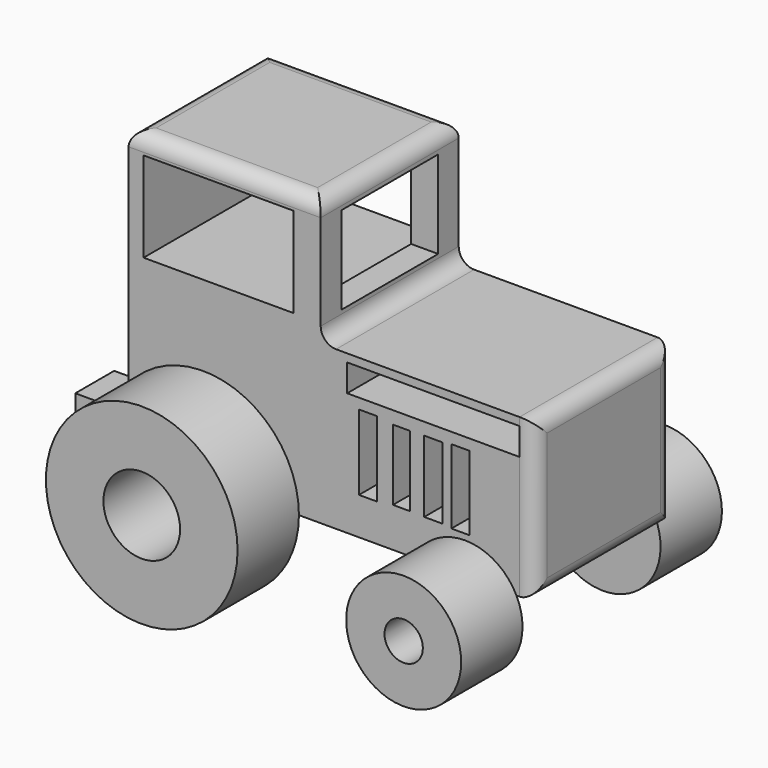
from build123d import *

# Parameters (mm, degrees)
F0_W      = 63.641474
F0_H      = 41.773599
F0_W_2    = 49.73047
F0_H_2    = 29.838283
F1_DEPTH  = 57.15
F2_R      = 19.05
F2_R_2    = 6.35
F2_R_3    = 31.75
F2_R_4    = 12.7
F3_DEPTH  = 25.4
F4_R      = 31.75
F4_R_2    = 12.7
F4_R_3    = 19.05
F4_R_4    = 6.35
F5_DEPTH  = 25.4
F6_W      = 40.11992
F6_H      = 29.025927
F7_DEPTH  = 25.4
F8_R      = 5.08
F9_W      = 16.103194
F9_H      = 9.219451
F9_W_2    = 7.053554
F9_H_2    = 3.602702
F10_DEPTH = 20.32
F11_W     = 57.042776
F11_H     = 9.006755
F11_W_2   = 6.004483
F11_H_2   = 24.91869
F11_W_3   = 5.704254
F11_H_3   = 23.417564
F11_H_4   = 24.618464
F11_W_4   = 6.004482
F11_H_5   = 23.717788
F12_DEPTH = 63.246


with BuildPart() as f1:
    # F0 (on Front) → F1 (new body)
    with BuildSketch(Plane.XZ):
        Polygon((-63.641474, 24.699468), (-63.655011, 24.699468), (-63.655011, -27.683297), (70.948809, -27.683297), (70.948809, 24.699468), (0, 24.699468), align=None)
        with Locations((-31.820737, 45.586267)):
            Rectangle(F0_W, F0_H)
        with Locations((-33.816721, 45.586267)):
            Rectangle(F0_W_2, F0_H_2, mode=Mode.SUBTRACT)
    extrude(amount=F1_DEPTH)

    # F2 (on Front) → F3 (join)
    with BuildSketch(Plane.XZ):
        with Locations((47.813714, -36.03467)):
            Circle(F2_R)
        with Locations((47.813714, -36.03467)):
            Circle(F2_R_2, mode=Mode.SUBTRACT)
        with Locations((-38.951659, -27.168135)):
            Circle(F2_R_3)
        with Locations((-38.951659, -27.168135)):
            Circle(F2_R_4, mode=Mode.SUBTRACT)
    extrude(amount=-F3_DEPTH)

    # F4 (on face) → F5 (join)
    with BuildSketch(Plane.XZ.offset(57.15)):
        with Locations((-38.965259, -27.683297)):
            Circle(F4_R)
        with Locations((-38.965259, -27.683297)):
            Circle(F4_R_2, mode=Mode.SUBTRACT)
        with Locations((47.799807, -36.177129)):
            Circle(F4_R_3)
        with Locations((47.799807, -36.177129)):
            Circle(F4_R_4, mode=Mode.SUBTRACT)
    extrude(amount=F5_DEPTH)

    # F6 (on face) → F7 (cut)
    with BuildSketch(Plane.YZ):
        with Locations((-28.575, 45.586267)):
            Rectangle(F6_W, F6_H)
    extrude(amount=-F7_DEPTH, mode=Mode.SUBTRACT)

    # F8
    f8_edges = [f1.edges().sort_by_distance(p)[0] for p in [
        (0, -28.575, 24.699468),
        (70.948809, -28.575, 24.699468),
        (70.948809, -28.575, -27.683297),
        (70.948809, 0, -1.491915),
        (70.948809, -57.15, -1.491915),
        (-31.820737, -57.15, 66.473067),
        (0, -28.575, 66.473067),
        (-31.820737, 0, 66.473067),
        (-63.641474, -28.575, 66.473067),
    ]]
    fillet(f8_edges, radius=F8_R)

    # F9 (on face) → F10 (join)
    with BuildSketch(Plane(origin=(-63.655011, 0, 0), x_dir=(0, -1, 0), z_dir=(-1, 0, 0))):
        with Locations((45.752488, -23.073571)):
            Rectangle(F9_W, F9_H)
        with Locations((45.752488, -23.074446)):
            Rectangle(F9_W_2, F9_H_2, mode=Mode.SUBTRACT)
    extrude(amount=F10_DEPTH)

    # F11 (on face) → F12 (cut)
    with BuildSketch(Plane.XZ.offset(57.15)):
        with Locations((37.286255, 17.56317)):
            Rectangle(F11_W, F11_H)
        with Locations((15.67004, -2.852139)):
            Rectangle(F11_W_2, F11_H_2)
        with Locations((26.778372, -2.852139)):
            Rectangle(F11_W_3, F11_H_3)
        with Locations((46.293005, -2.852139)):
            Rectangle(F11_W_2, F11_H_4)
        with Locations((37.286252, -2.852139)):
            Rectangle(F11_W_4, F11_H_5)
    extrude(amount=-F12_DEPTH, mode=Mode.SUBTRACT)


solid = f1.part
